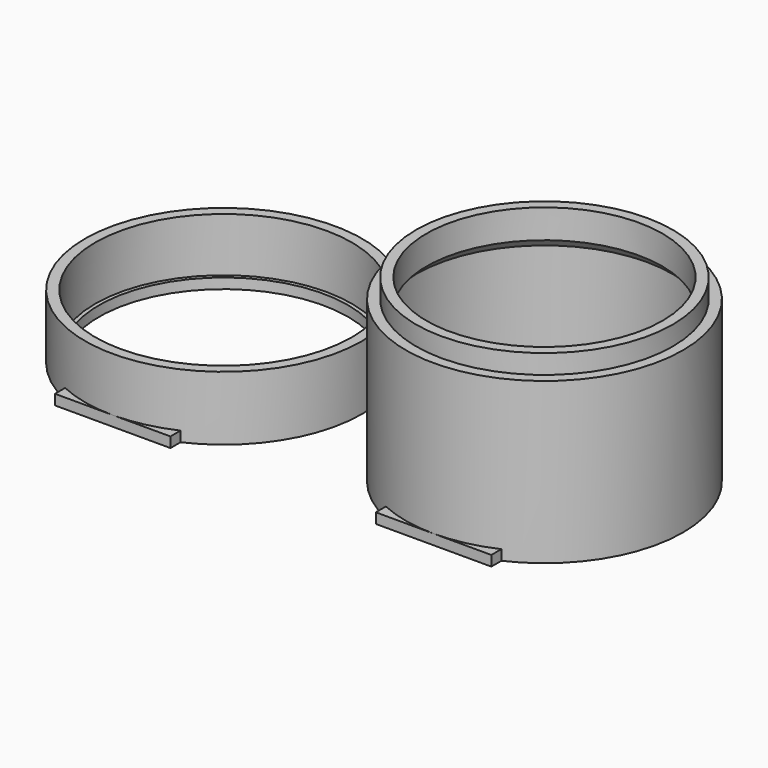
from build123d import *

# Parameters (mm, degrees)
CYLINDER006_R     = 18.4
CYLINDER006_DEPTH = 6
CYLINDER005_R     = 20
CYLINDER005_DEPTH = 6
CHAMFER_SIZE      = 1.5
BOX001_W          = 18
BOX001_H          = 2.1
BOX001_DEPTH      = 1.6
BOX002_W          = 6
BOX002_H          = 3
BOX002_DEPTH      = 10
CYLINDER004_R     = 20
CYLINDER004_DEPTH = 25
CYLINDER003_R     = 21.6
CYLINDER003_DEPTH = 25
BOX_W             = 18
BOX_H             = 2.1
BOX_DEPTH         = 1.6
CYLINDER_R        = 19.4
CYLINDER_DEPTH    = 10
CYLINDER002_R     = 20
CYLINDER002_DEPTH = 10
CYLINDER001_R     = 21.6
CYLINDER001_DEPTH = 10


with BuildPart() as zylinder006:
    # Cylinder006 → Cylinder006 (new body)
    with BuildSketch(Plane(origin=(100, 0, 0), x_dir=(1, 0, 0), z_dir=(0, 0, 1))):
        Circle(CYLINDER006_R)
    extrude(amount=CYLINDER006_DEPTH)


with BuildPart() as chamfer_body:
    # Cylinder005 → Cylinder005 (new body)
    with BuildSketch(Plane(origin=(100, 0, 0), x_dir=(1, 0, 0), z_dir=(0, 0, 1))):
        Circle(CYLINDER005_R)
    extrude(amount=CYLINDER005_DEPTH)

    # Cut004: cut Zylinder006
    add(zylinder006.part, mode=Mode.SUBTRACT)

    # Chamfer
    chamfer_edges = [chamfer_body.edges().sort_by_distance(p)[0] for p in [
        (81.6, 0, 0),
    ]]
    chamfer(chamfer_edges, length=CHAMFER_SIZE)


with BuildPart() as chamfer_body_1:
    # Chamfer placement: moved
    add(chamfer_body.part.moved(Location((-50, 0, 22))))


with BuildPart() as obj1:
    # Box001 → Box001 (new body)
    with BuildSketch(Plane(origin=(41, -21.6, 0), x_dir=(1, 0, 0), z_dir=(0, 0, 1))):
        with Locations((9, 1.05)):
            Rectangle(BOX001_W, BOX001_H)
    extrude(amount=BOX001_DEPTH)


with BuildPart() as obj2:
    # Box002 → Box002 (new body)
    with BuildSketch(Plane(origin=(47, -18, 0), x_dir=(1, 0, 0), z_dir=(0, 0, 1))):
        with Locations((3, 1.5)):
            Rectangle(BOX002_W, BOX002_H)
    extrude(amount=BOX002_DEPTH)


with BuildPart() as zylinder004:
    # Cylinder004 → Cylinder004 (new body)
    with BuildSketch(Plane(origin=(50, 0, 1.6), x_dir=(1, 0, 0), z_dir=(0, 0, 1))):
        Circle(CYLINDER004_R)
    extrude(amount=CYLINDER004_DEPTH)


with BuildPart() as fusion001:
    # Cylinder003 → Cylinder003 (new body)
    with BuildSketch(Plane(origin=(50, 0, 0), x_dir=(1, 0, 0), z_dir=(0, 0, 1))):
        Circle(CYLINDER003_R)
    extrude(amount=CYLINDER003_DEPTH)

    # Cut002: cut Zylinder004
    add(zylinder004.part, mode=Mode.SUBTRACT)

    # Cut003: cut obj2
    add(obj2.part, mode=Mode.SUBTRACT)

    # Fusion001: union Chamfer body, obj1
    add(chamfer_body_1.part)
    add(obj1.part)


with BuildPart() as obj3:
    # Box → Box (new body)
    with BuildSketch(Plane(origin=(-9, -21.6, 0), x_dir=(1, 0, 0), z_dir=(0, 0, 1))):
        with Locations((9, 1.05)):
            Rectangle(BOX_W, BOX_H)
    extrude(amount=BOX_DEPTH)


with BuildPart() as zylinder:
    # Cylinder → Cylinder (new body)
    with BuildSketch(Plane.XY):
        Circle(CYLINDER_R)
    extrude(amount=CYLINDER_DEPTH)


with BuildPart() as zylinder002:
    # Cylinder002 → Cylinder002 (new body)
    with BuildSketch(Plane.XY.offset(1.6)):
        Circle(CYLINDER002_R)
    extrude(amount=CYLINDER002_DEPTH)


with BuildPart() as fusion002:
    # Cylinder001 → Cylinder001 (new body)
    with BuildSketch(Plane.XY):
        Circle(CYLINDER001_R)
    extrude(amount=CYLINDER001_DEPTH)

    # Cut: cut Zylinder002
    add(zylinder002.part, mode=Mode.SUBTRACT)

    # Cut001: cut Zylinder
    add(zylinder.part, mode=Mode.SUBTRACT)

    # Fusion: union obj3
    add(obj3.part)

    # Fusion002: union Fusion001
    add(fusion001.part)


solid = fusion002.part
